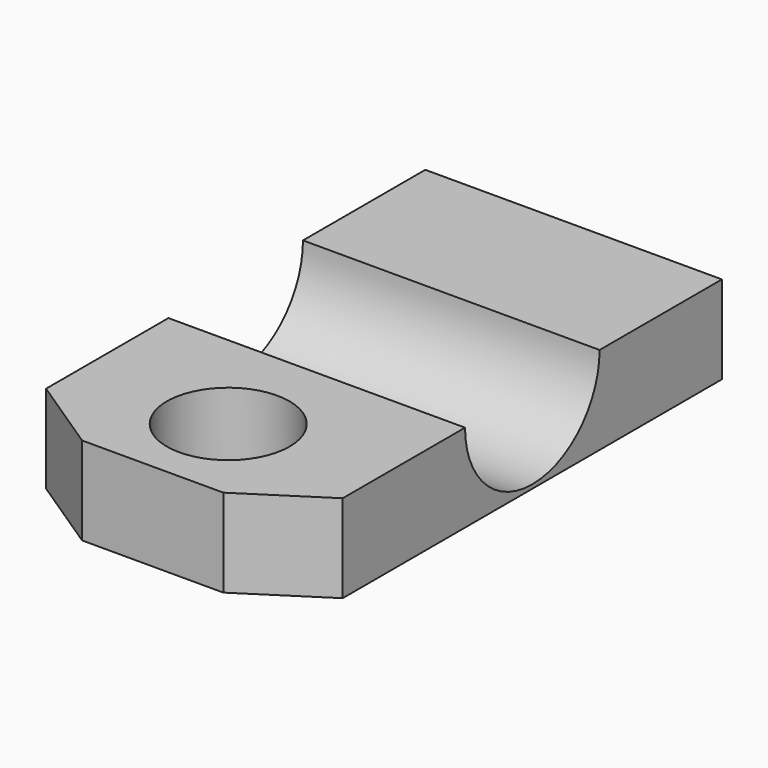
from build123d import *

# Parameters (mm, degrees)
F0_W     = 192.6347911358
F0_H     = 216.3815796375
F1_DEPTH = 57.15
F2_R     = 39.8334565753
F3_DEPTH = 57.15
F5_D     = 109.22


with BuildPart() as f1:
    # F0 (on Top) → F1 (new body)
    with BuildSketch(Plane.XY):
        Rectangle(F0_W, F0_H)
    extrude(amount=-F1_DEPTH)

    # F2 (on face) → F3 (join)
    with BuildSketch(Plane.XY):
        Polygon((96.3173955679, -108.1907898188), (-96.3173955679, -108.1907898188), (-96.3173955679, -199.6307898188), (-46.5067504646, -232.6507898188), (45.1959193569, -232.6507898188), (96.3173955679, -199.6307898188), align=None)
        with Locations((0, -172.1784213857)):
            Circle(F2_R, mode=Mode.SUBTRACT)
    extrude(amount=-F3_DEPTH)

    # F5 (through all)
    with Locations(Plane(origin=(-96.3173955679, 0, 0), x_dir=(0, -1, 0), z_dir=(-1, 0, 0))):
        with Locations((45.72, 0)):
            Hole(F5_D / 2)


solid = f1.part
